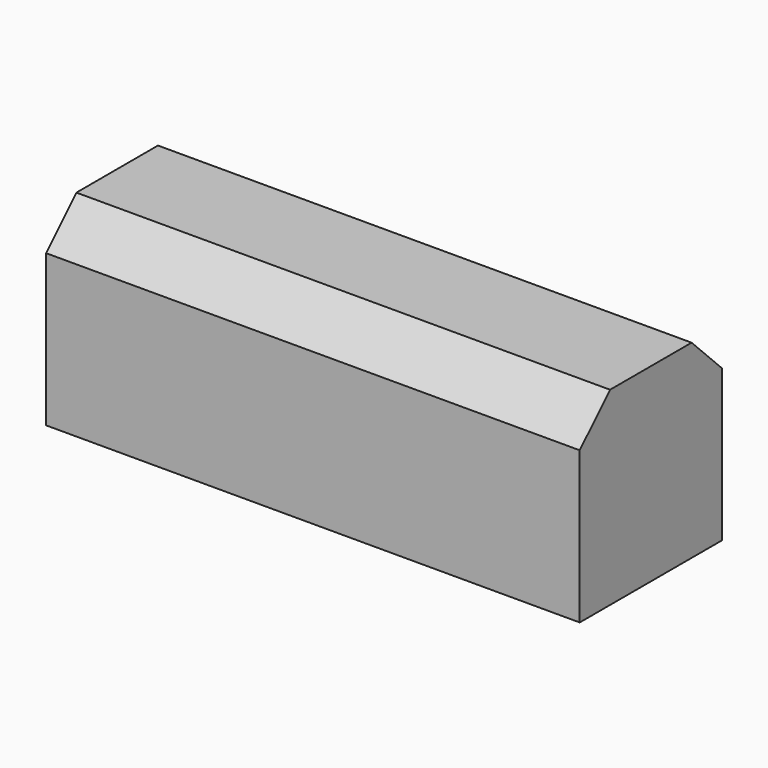
from build123d import *

# Parameters (mm, degrees)
F0_W     = 71.529545
F0_H     = 23.824636
F1_DEPTH = 25.4
F2_SIZE  = 5.08


with BuildPart() as f1:
    # F0 (on Top) → F1 (new body)
    with BuildSketch(Plane.XY):
        with Locations((-35.764772, -11.912318)):
            Rectangle(F0_W, F0_H)
    extrude(amount=F1_DEPTH)

    # F2
    f2_edges = [f1.edges().sort_by_distance(p)[0] for p in [
        (-35.764772, -23.824636, 25.4),
        (-35.764772, 0, 25.4),
    ]]
    chamfer(f2_edges, length=F2_SIZE)


solid = f1.part
